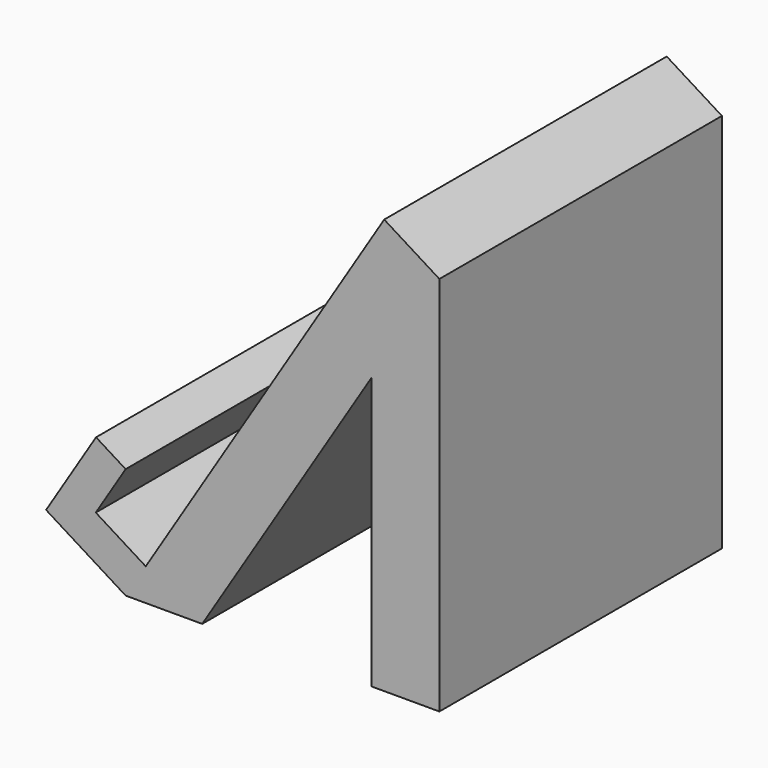
from build123d import *

# Parameters (mm, degrees)
F1_DEPTH = 76.2


with BuildPart() as f1:
    # F0 (on Front) → F1 (new body)
    with BuildSketch(Plane.XZ):
        Polygon((-44.533051, 10.691937), (-27.366411, 0), (-23.028744, 6.964423), (-33.808812, 13.678597), (-27.366411, 24.022314), (-33.752983, 28.000077), align=None)
        Polygon((40.3336, 82.164579), (25.692132, 58.656697), (25.692132, 0), (40.3336, 0), align=None)
        Polygon((-23.028744, 6.964423), (-27.366411, 0), (-10.841151, 0), (25.692132, 58.656697), (40.3336, 82.164579), (28.427108, 89.580327), align=None)
    extrude(amount=F1_DEPTH)


solid = f1.part
